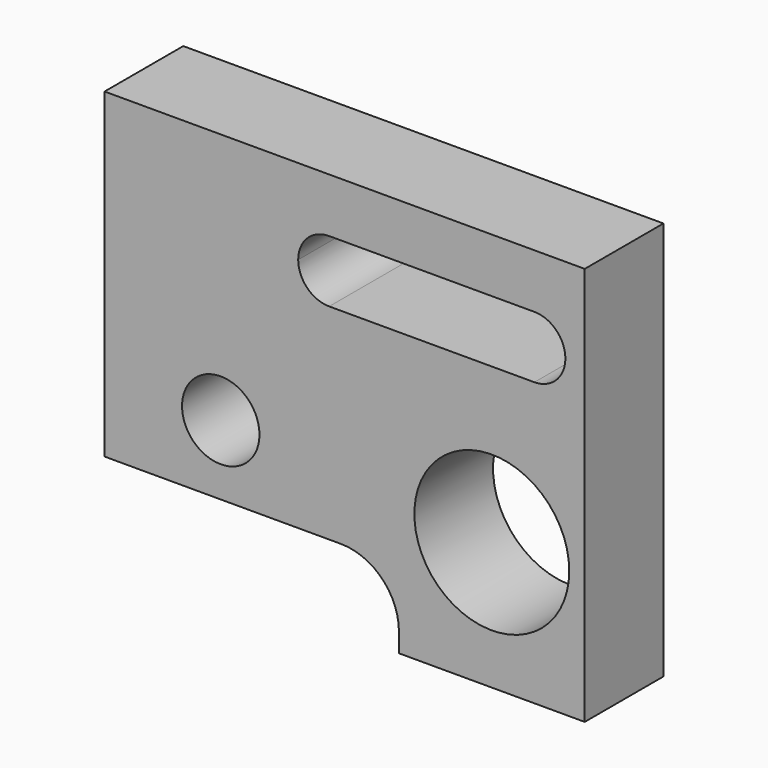
from build123d import *

# Parameters (mm, degrees)
F0_R     = 10
F0_R_2   = 20
F1_DEPTH = 25.4


with BuildPart() as f1:
    # F0 (on Front) → F1 (new body)
    with BuildSketch(Plane.XZ):
        with BuildLine():
            Line((-43.143227, 76.914711), (-93.143227, 76.914711))
            Line((-93.143227, 76.914711), (-93.143227, 11.914711))
            Line((-93.143227, 11.914711), (-93.143227, -6.085289))
            Line((-93.143227, -6.085289), (-64.090909, -6.085289))
            Line((-64.090909, -6.085289), (-32.130199, -6.085289))
            ThreePointArc((-32.130199, -6.085289), (-21.509733, -10.492569), (-17.13025, -21.124528))
            Line((-17.13025, -21.124528), (-17.143227, -26.085289))
            Line((-17.143227, -26.085289), (6.856773, -26.085289))
            Line((6.856773, -26.085289), (30.856773, -26.085289))
            Line((30.856773, -26.085289), (30.856773, 6.914711))
            Line((30.856773, 6.914711), (30.856773, 46.914711))
            Line((30.856773, 46.914711), (30.856773, 62.914711))
            Line((30.856773, 62.914711), (30.856773, 76.914711))
            Line((30.856773, 76.914711), (25.856773, 76.914711))
            Line((25.856773, 76.914711), (-43.143227, 76.914711))
        make_face()
        with Locations((-63.143227, 11.914711)):
            Circle(F0_R, mode=Mode.SUBTRACT)
        with Locations((6.856773, 6.914711)):
            Circle(F0_R_2, mode=Mode.SUBTRACT)
        with BuildLine():
            ThreePointArc((25.856773, 54.914711), (23.513628, 49.257857), (17.856773, 46.914711))
            Line((17.856773, 46.914711), (-35.143227, 46.914711))
            ThreePointArc((-35.143227, 46.914711), (-40.800081, 49.257857), (-43.143227, 54.914711))
            ThreePointArc((-43.143227, 54.914711), (-40.800081, 60.571565), (-35.143227, 62.914711))
            Line((-35.143227, 62.914711), (17.856773, 62.914711))
            ThreePointArc((17.856773, 62.914711), (23.513628, 60.571565), (25.856773, 54.914711))
        make_face(mode=Mode.SUBTRACT)
    extrude(amount=F1_DEPTH)


solid = f1.part
